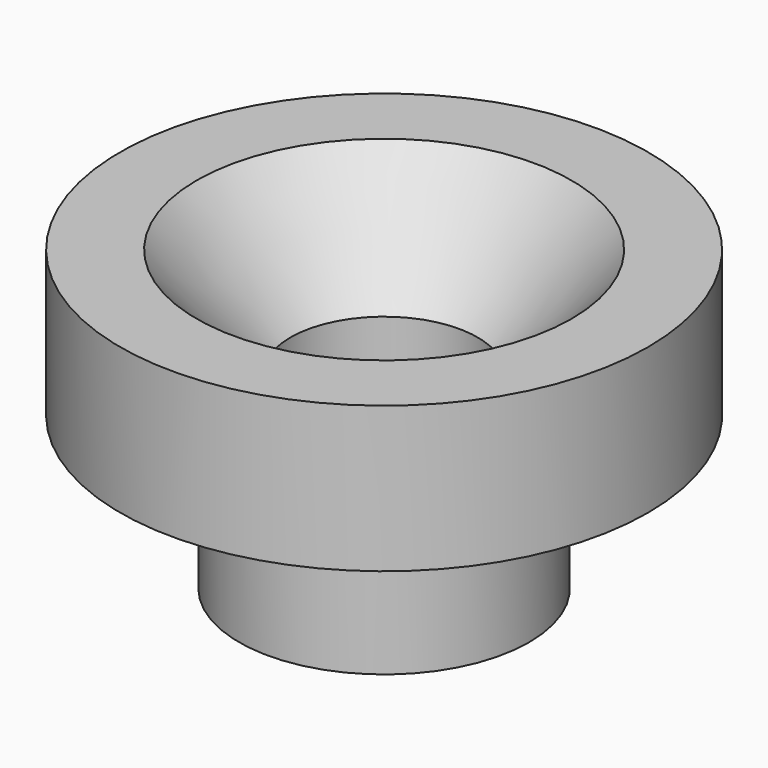
from build123d import *

# Parameters (mm, degrees)
F0_R           = 5.306447
F1_DEPTH       = 5.588
F2_R           = 9.656937
F3_DEPTH       = 5.334
F5_D           = 6.858
F5_CSINK_D     = 13.716
F5_CSINK_ANGLE = 82


with BuildPart() as f1:
    # F0 (on Top) → F1 (new body)
    with BuildSketch(Plane.XY):
        Circle(F0_R)
    extrude(amount=F1_DEPTH)

    # F2 (on face) → F3 (join)
    with BuildSketch(Plane.XY.offset(5.588)):
        Circle(F2_R)
    extrude(amount=F3_DEPTH)

    # F5 (through all)
    with Locations(Plane.XY.offset(10.922)):
        with Locations((0, 0)):
            CounterSinkHole(F5_D / 2, F5_CSINK_D / 2, counter_sink_angle=F5_CSINK_ANGLE)


solid = f1.part
